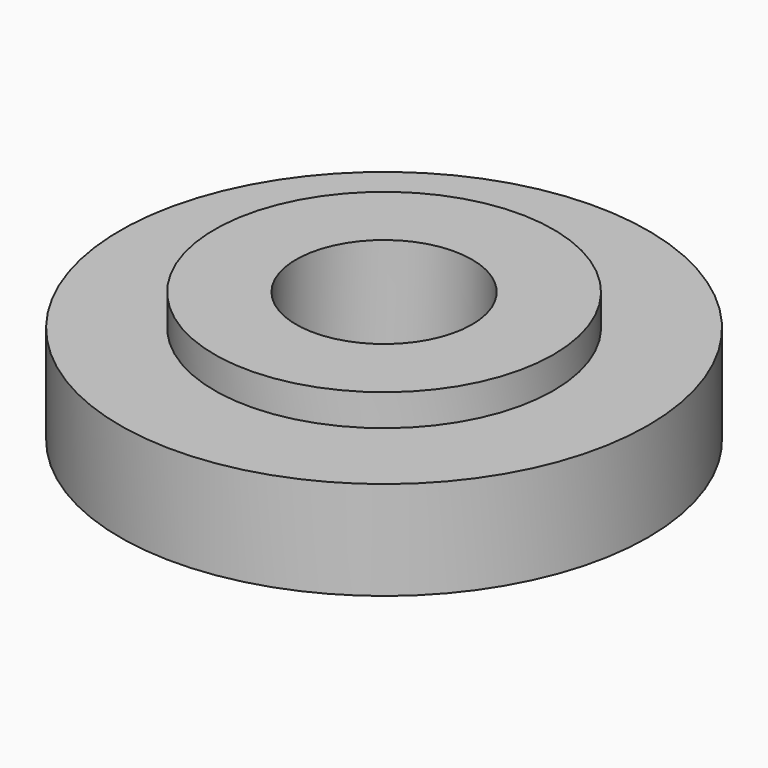
from build123d import *

# Parameters (mm, degrees)
F0_R     = 75
F0_R_2   = 25
F1_DEPTH = 28
F2_R     = 48.1474701807
F2_R_2   = 25
F3_DEPTH = 9
F4_R     = 39.9409386185
F4_R_2   = 25
F5_DEPTH = 15


with BuildPart() as f1:
    # F0 (on Top) → F1 (new body)
    with BuildSketch(Plane.XY):
        Circle(F0_R)
        Circle(F0_R_2, mode=Mode.SUBTRACT)
    extrude(amount=F1_DEPTH)

    # F2 (on face) → F3 (join)
    with BuildSketch(Plane.XY.offset(28)):
        Circle(F2_R)
        Circle(F2_R_2, mode=Mode.SUBTRACT)
    extrude(amount=F3_DEPTH)

    # F4 (on face) → F5 (join)
    with BuildSketch(Plane.XY.offset(37)):
        Circle(F4_R)
        Circle(F4_R_2, mode=Mode.SUBTRACT)
    extrude(amount=-F5_DEPTH)


solid = f1.part
